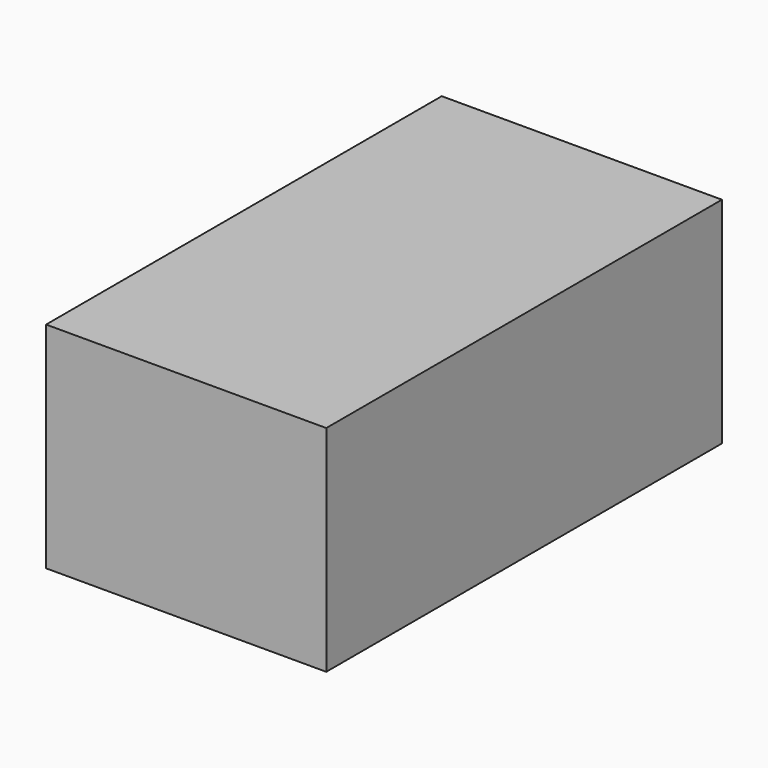
from build123d import *

# Parameters (mm, degrees)
F0_W     = 75.775846839
F0_H     = 118.2782948017
F1_DEPTH = 62.6077670604
F3_W     = 44.1254228354
F3_H     = 19.1485136747
F4_DEPTH = 25


with BuildPart() as f1:
    # F0 (on Top) → F1 (new body)
    with BuildSketch(Plane.XY):
        Rectangle(F0_W, F0_H)
    extrude(amount=F1_DEPTH)


with BuildPart() as f4:
    # F3 (on Right) → F4 (new body)
    with BuildSketch(Plane.YZ):
        Rectangle(F3_W, F3_H)
    extrude(amount=F4_DEPTH)


solid = f4.part
